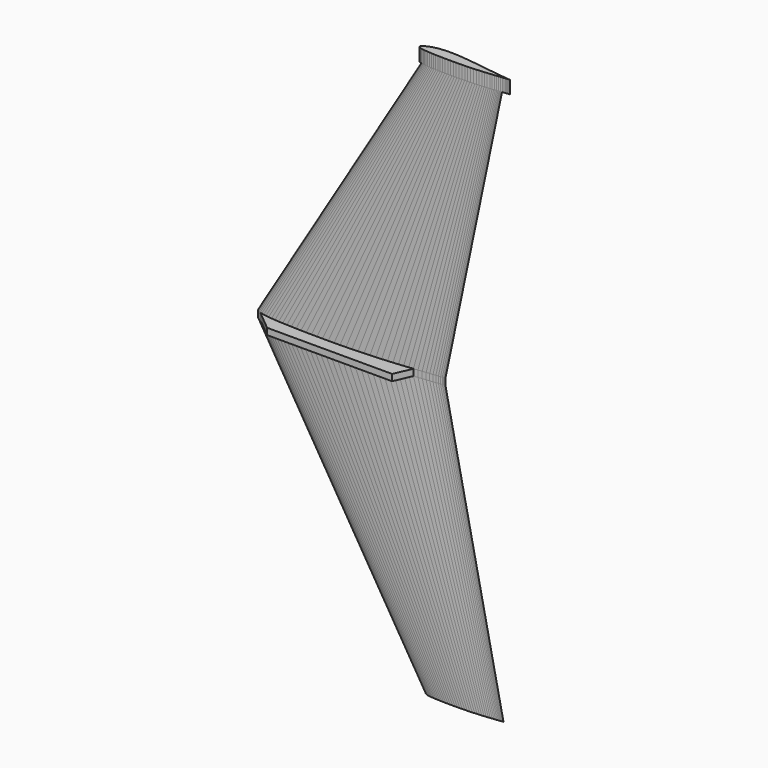
from build123d import *

# Parameters (mm, degrees)
PAD_DEPTH    = 5
PAD001_DEPTH = 20


with BuildPart() as fusoliera:
    # Sketch → Pad (new body, symmetric)
    with BuildSketch(Plane.XY):
        with BuildLine():
            Line((290, 0), (289.7129, 0.0174))
            Line((289.7129, 0.0174), (288.8574, 0.0696))
            Line((288.8574, 0.0696), (287.4306, 0.1769))
            Line((287.4306, 0.1769), (285.4441, 0.3509))
            Line((285.4441, 0.3509), (282.9037, 0.6003))
            Line((282.9037, 0.6003), (279.8181, 0.9251))
            Line((279.8181, 0.9251), (276.1989, 1.3224))
            Line((276.1989, 1.3224), (272.0635, 1.7893))
            Line((272.0635, 1.7893), (267.4264, 2.3229))
            Line((267.4264, 2.3229), (262.3079, 2.9261))
            Line((262.3079, 2.9261), (256.7254, 3.6076))
            Line((256.7254, 3.6076), (250.6992, 4.3587))
            Line((250.6992, 4.3587), (244.2583, 5.1852))
            Line((244.2583, 5.1852), (237.4259, 6.0784))
            Line((237.4259, 6.0784), (230.2281, 7.0383))
            Line((230.2281, 7.0383), (230.2281, 40.028069))
            Line((230.2281, 40.028069), (201.90651, 39.515951))
            ThreePointArc((172.217343, 14.637652), (187.660006, 26.363067), (201.90651, 39.515951))
            Line((172.217343, 14.637652), (163.1743, 16.2081))
            Line((163.1743, 16.2081), (154.106, 17.371))
            Line((154.106, 17.371), (145, 18.4817))
            Line((145, 18.4817), (135.8969, 19.5199))
            Line((135.8969, 19.5199), (126.8257, 20.4682))
            Line((126.8257, 20.4682), (117.8299, 21.3034))
            Line((117.8299, 21.3034), (108.9414, 22.0023))
            Line((108.9414, 22.0023), (100.1921, 22.5446))
            Line((100.1921, 22.5446), (91.6226, 22.9129))
            Line((91.6226, 22.9129), (83.2619, 23.0898))
            Line((83.2619, 23.0898), (75.1448, 23.0608))
            Line((75.1448, 23.0608), (67.3061, 22.8201))
            Line((67.3061, 22.8201), (59.7719, 22.3561))
            Line((59.7719, 22.3561), (52.5741, 21.6717))
            Line((52.5741, 21.6717), (45.7417, 20.7698))
            Line((45.7417, 20.7698), (39.3008, 19.662))
            Line((39.3008, 19.662), (33.2746, 18.3628))
            Line((33.2746, 18.3628), (27.6921, 16.8896))
            Line((27.6921, 16.8896), (22.5736, 15.2714))
            Line((22.5736, 15.2714), (17.9365, 13.5314))
            Line((17.9365, 13.5314), (13.8011, 11.7015))
            Line((13.8011, 11.7015), (10.1819, 9.8165))
            Line((10.1819, 9.8165), (7.0963, 7.9112))
            Line((7.0963, 7.9112), (4.5559, 6.0378))
            Line((4.5559, 6.0378), (2.5694, 4.263))
            Line((2.5694, 4.263), (1.1426, 2.6535))
            Line((1.1426, 2.6535), (0.2871, 1.2383))
            Line((0.2871, 1.2383), (0, 0))
            Line((0, 0), (0.2871, -1.131))
            Line((0.2871, -1.131), (1.1426, -2.2243))
            Line((1.1426, -2.2243), (2.5694, -3.3176))
            Line((2.5694, -3.3176), (4.5559, -4.3964))
            Line((4.5559, -4.3964), (7.0963, -5.4201))
            Line((38.675534, -31.593528), (7.0963, -5.4201))
            Line((38.675534, -31.593528), (232.520951, -31.593528))
            Line((232.520951, -31.593528), (244.2583, -4.8227))
            Line((244.2583, -4.8227), (250.6992, -4.1267))
            Line((250.6992, -4.1267), (256.7254, -3.4626))
            Line((256.7254, -3.4626), (262.3079, -2.842))
            Line((262.3079, -2.842), (267.4264, -2.2765))
            Line((267.4264, -2.2765), (272.0635, -1.7661))
            Line((272.0635, -1.7661), (276.1989, -1.3137))
            Line((276.1989, -1.3137), (279.8181, -0.9222))
            Line((279.8181, -0.9222), (282.9037, -0.5974))
            Line((282.9037, -0.5974), (285.4441, -0.3509))
            Line((285.4441, -0.3509), (287.4306, -0.1769))
            Line((287.4306, -0.1769), (288.8574, -0.0696))
            Line((288.8574, -0.0696), (289.7129, -0.0174))
            Line((289.7129, -0.0174), (290, 0))
        make_face()
    extrude(amount=PAD_DEPTH, both=True)


with BuildPart() as loft_body:
    # Sketch001 → Loft section 0
    with BuildSketch(Plane.XY):
        Polygon((290, 0), (289.7129, 0.0174), (288.8574, 0.0696), (287.4306, 0.1769), (285.4441, 0.3509), (282.9037, 0.6003), (279.8181, 0.9251), (276.1989, 1.3224), (272.0635, 1.7893), (267.4264, 2.3229), (262.3079, 2.9261), (256.7254, 3.6076), (250.6992, 4.3587), (244.2583, 5.1852), (237.4259, 6.0784), (230.2281, 7.0383), (222.6939, 8.0591), (214.8552, 9.135), (206.7381, 10.2573), (198.3774, 11.4173), (189.8079, 12.6034), (181.0615, 13.8098), (172.1701, 15.0162), (163.1743, 16.2081), (154.106, 17.371), (145, 18.4817), (135.8969, 19.5199), (126.8257, 20.4682), (117.8299, 21.3034), (108.9414, 22.0023), (100.1921, 22.5446), (91.6226, 22.9129), (83.2619, 23.0898), (75.1448, 23.0608), (67.3061, 22.8201), (59.7719, 22.3561), (52.5741, 21.6717), (45.7417, 20.7698), (39.3008, 19.662), (33.2746, 18.3628), (27.6921, 16.8896), (22.5736, 15.2714), (17.9365, 13.5314), (13.8011, 11.7015), (10.1819, 9.8165), (7.0963, 7.9112), (4.5559, 6.0378), (2.5694, 4.263), (1.1426, 2.6535), (0.2871, 1.2383), (0, 0), (0.2871, -1.131), (1.1426, -2.2243), (2.5694, -3.3176), (4.5559, -4.3964), (7.0963, -5.4201), (10.1819, -6.3568), (13.8011, -7.1949), (17.9365, -7.9344), (22.5736, -8.5811), (27.6921, -9.1437), (33.2746, -9.6367), (39.3008, -10.063), (45.7417, -10.4371), (52.5741, -10.7619), (59.7719, -11.0461), (67.3061, -11.2926), (75.1448, -11.5043), (83.2619, -11.6812), (91.6226, -11.8175), (100.1921, -11.9161), (108.9414, -11.9683), (117.8299, -11.9712), (126.8257, -11.9161), (135.8969, -11.8001), (145, -11.6174), (154.106, -11.3651), (163.1743, -11.0374), (172.1701, -10.6401), (181.0615, -10.1732), (189.8079, -9.6396), (198.3774, -9.0451), (206.7381, -8.4013), (214.8552, -7.7169), (222.6939, -7.0064), (230.2281, -6.2756), (237.4259, -5.5448), (244.2583, -4.8227), (250.6992, -4.1267), (256.7254, -3.4626), (262.3079, -2.842), (267.4264, -2.2765), (272.0635, -1.7661), (276.1989, -1.3137), (279.8181, -0.9222), (282.9037, -0.5974), (285.4441, -0.3509), (287.4306, -0.1769), (288.8574, -0.0696), (289.7129, -0.0174), align=None)
    # Sketch002 → Loft section 1
    with BuildSketch(Plane(origin=(260, 0, 430), x_dir=(1, 0, 0), z_dir=(0, 0, 1))):
        Polygon((120, 0), (119.8812, 0.0072), (119.5272, 0.0288), (118.9368, 0.0732), (118.1148, 0.1452), (117.0636, 0.2484), (115.7868, 0.3828), (114.2892, 0.5472), (112.578, 0.7404), (110.6592, 0.9612), (108.5412, 1.2108), (106.2312, 1.4928), (103.7376, 1.8036), (101.0724, 2.1456), (98.2452, 2.5152), (95.2668, 2.9124), (92.1492, 3.3348), (88.9056, 3.78), (85.5468, 4.2444), (82.0872, 4.7244), (78.5412, 5.2152), (74.922, 5.7144), (71.2428, 6.2136), (67.5204, 6.7068), (63.768, 7.188), (60, 7.6476), (56.2332, 8.0772), (52.4796, 8.4696), (48.7572, 8.8152), (45.0792, 9.1044), (41.4588, 9.3288), (37.9128, 9.4812), (34.4532, 9.5544), (31.0944, 9.5424), (27.8508, 9.4428), (24.7332, 9.2508), (21.7548, 8.9676), (18.9276, 8.5944), (16.2624, 8.136), (13.7688, 7.5984), (11.4588, 6.9888), (9.3408, 6.3192), (7.422, 5.5992), (5.7108, 4.842), (4.2132, 4.062), (2.9364, 3.2736), (1.8852, 2.4984), (1.0632, 1.764), (0.4728, 1.098), (0.1188, 0.5124), (0, 0), (0.1188, -0.468), (0.4728, -0.9204), (1.0632, -1.3728), (1.8852, -1.8192), (2.9364, -2.2428), (4.2132, -2.6304), (5.7108, -2.9772), (7.422, -3.2832), (9.3408, -3.5508), (11.4588, -3.7836), (13.7688, -3.9876), (16.2624, -4.164), (18.9276, -4.3188), (21.7548, -4.4532), (24.7332, -4.5708), (27.8508, -4.6728), (31.0944, -4.7604), (34.4532, -4.8336), (37.9128, -4.89), (41.4588, -4.9308), (45.0792, -4.9524), (48.7572, -4.9536), (52.4796, -4.9308), (56.2332, -4.8828), (60, -4.8072), (63.768, -4.7028), (67.5204, -4.5672), (71.2428, -4.4028), (74.922, -4.2096), (78.5412, -3.9888), (82.0872, -3.7428), (85.5468, -3.4764), (88.9056, -3.1932), (92.1492, -2.8992), (95.2668, -2.5968), (98.2452, -2.2944), (101.0724, -1.9956), (103.7376, -1.7076), (106.2312, -1.4328), (108.5412, -1.176), (110.6592, -0.942), (112.578, -0.7308), (114.2892, -0.5436), (115.7868, -0.3816), (117.0636, -0.2472), (118.1148, -0.1452), (118.9368, -0.0732), (119.5272, -0.0288), (119.8812, -0.0072), align=None)
    loft()


with BuildPart() as loft_body_1:
    # Loft placement: moved
    add(loft_body.part.moved(Location((0, 0, 5))))


with BuildPart() as aereo:
    # Part__Mirroring: instance of Loft body
    add(loft_body_1.part.mirror(Plane(origin=(170, 5.5593, 0), x_dir=(0, 1, 0), z_dir=(0, 0, 1))))

    # Fusion001: union Loft body
    add(loft_body_1.part)

    # Fusion002: union fusoliera
    add(fusoliera.part)


with BuildPart() as pad001:
    # Sketch003 → Pad001 (new body)
    with BuildSketch(Plane(origin=(190, 0, 425), x_dir=(1, 0, 0), z_dir=(0, 0, 1))):
        Polygon((200, 0), (199.8614, 0.0084), (199.4484, 0.0336), (198.7596, 0.0854), (197.8006, 0.1694), (196.5742, 0.2898), (195.0846, 0.4466), (193.3374, 0.6384), (191.341, 0.8638), (189.1024, 1.1214), (186.6314, 1.4126), (183.9364, 1.7416), (181.0272, 2.1042), (177.9178, 2.5032), (174.6194, 2.9344), (171.1446, 3.3978), (167.5074, 3.8906), (163.7232, 4.41), (159.8046, 4.9518), (155.7684, 5.5118), (151.6314, 6.0844), (147.409, 6.6668), (143.1166, 7.2492), (138.7738, 7.8246), (134.396, 8.386), (130, 8.9222), (125.6054, 9.4234), (121.2262, 9.8812), (116.8834, 10.2844), (112.5924, 10.6218), (108.3686, 10.8836), (104.2316, 11.0614), (100.1954, 11.1468), (96.2768, 11.1328), (92.4926, 11.0166), (88.8554, 10.7926), (85.3806, 10.4622), (82.0822, 10.0268), (78.9728, 9.492), (76.0636, 8.8648), (73.3686, 8.1536), (70.8976, 7.3724), (68.659, 6.5324), (66.6626, 5.649), (64.9154, 4.739), (63.4258, 3.8192), (62.1994, 2.9148), (61.2404, 2.058), (60.5516, 1.281), (60.1386, 0.5978), (60, 0), (60.1386, -0.546), (60.5516, -1.0738), (61.2404, -1.6016), (62.1994, -2.1224), (63.4258, -2.6166), (64.9154, -3.0688), (66.6626, -3.4734), (68.659, -3.8304), (70.8976, -4.1426), (73.3686, -4.4142), (76.0636, -4.6522), (78.9728, -4.858), (82.0822, -5.0386), (85.3806, -5.1954), (88.8554, -5.3326), (92.4926, -5.4516), (96.2768, -5.5538), (100.1954, -5.6392), (104.2316, -5.705), (108.3686, -5.7526), (112.5924, -5.7778), (116.8834, -5.7792), (121.2262, -5.7526), (125.6054, -5.6966), (130, -5.6084), (134.396, -5.4866), (138.7738, -5.3284), (143.1166, -5.1366), (147.409, -4.9112), (151.6314, -4.6536), (155.7684, -4.3666), (159.8046, -4.0558), (163.7232, -3.7254), (167.5074, -3.3824), (171.1446, -3.0296), (174.6194, -2.6768), (177.9178, -2.3282), (181.0272, -1.9922), (183.9364, -1.6716), (186.6314, -1.372), (189.1024, -1.099), (191.341, -0.8526), (193.3374, -0.6342), (195.0846, -0.4452), (196.5742, -0.2884), (197.8006, -0.1694), (198.7596, -0.0854), (199.4484, -0.0336), (199.8614, -0.0084), align=None)
    extrude(amount=PAD001_DEPTH)


solid = Compound([aereo.part, pad001.part])
